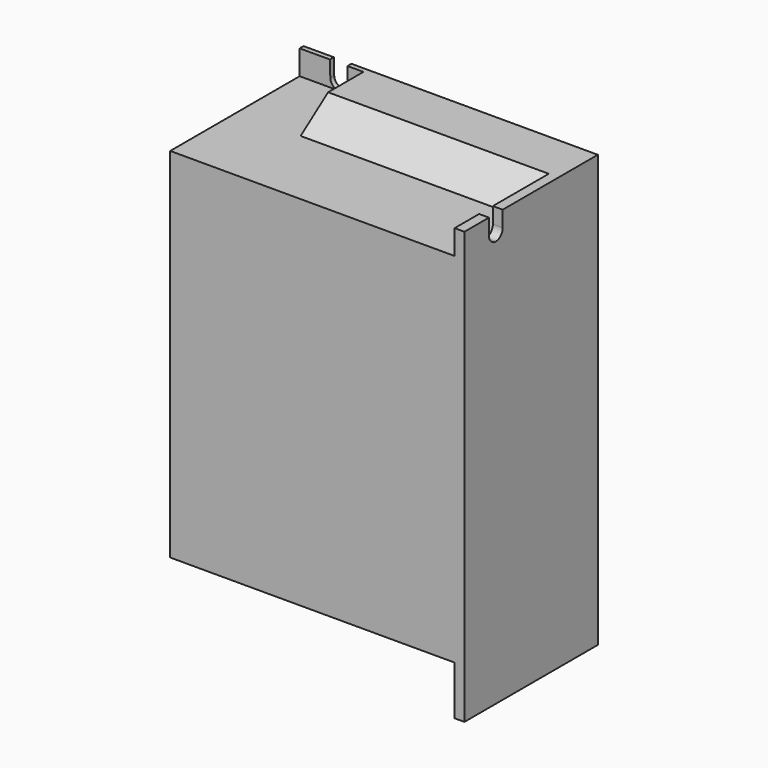
from build123d import *

# Parameters (mm, degrees)
F0_W      = 60
F0_H      = 88
F1_DEPTH  = 34
F3_DEPTH  = 58
F4_W      = 13
F4_H      = 5
F5_DEPTH  = 33
F7_DEPTH  = 1.001
F9_DEPTH  = 2.001
F4_W_2    = 58
F4_H_2    = 10
F10_DEPTH = 25
F11_W     = 58
F11_H     = 7
F12_DEPTH = 10
F14_DEPTH = 3
F15_R     = 1.75
F16_DEPTH = 3


with BuildPart() as f1:
    # F0 (on Front) → F1 (new body)
    with BuildSketch(Plane.XZ):
        Rectangle(F0_W, F0_H)
    extrude(amount=F1_DEPTH)

    # F2 (on face) → F3 (cut)
    with BuildSketch(Plane(origin=(-30, 0, 0), x_dir=(0, -1, 0), z_dir=(-1, 0, 0))):
        Polygon((34, 39), (34, 44), (10, 44), (17, 39), align=None)
    extrude(amount=-F3_DEPTH, mode=Mode.SUBTRACT)

    # F4 (on face) → F5 (cut)
    with BuildSketch(Plane.XZ.offset(34)):
        with Locations((-23.5, 41.5)):
            Rectangle(F4_W, F4_H)
    extrude(amount=-F5_DEPTH, mode=Mode.SUBTRACT)

    # F6 (on face) → F7 (cut, through all)
    with BuildSketch(Plane.XZ.offset(1)):
        with BuildLine():
            Line((-23.831531967, 44), (-23.7494568899, 40.7064042404))
            ThreePointArc((-23.7494568899, 40.7064042404), (-23.2219262295, 39.4972445212), (-22, 39))
            ThreePointArc((-22, 39), (-20.7625631329, 39.5125631329), (-20.25, 40.75))
            Line((-20.25, 40.75), (-20.25, 44))
            Line((-20.25, 44), (-23.831531967, 44))
        make_face()
    extrude(amount=-F7_DEPTH, mode=Mode.SUBTRACT)

    # F8 (on face) → F9 (cut, through all)
    with BuildSketch(Plane(origin=(28, 0, 0), x_dir=(0, -1, 0), z_dir=(-1, 0, 0))):
        with BuildLine():
            Line((24.25, 44), (24.25, 40.75))
            ThreePointArc((24.25, 40.75), (24.7625631329, 39.5125631329), (26, 39))
            ThreePointArc((26, 39), (27.2374368671, 39.5125631329), (27.75, 40.75))
            Line((27.75, 40.75), (27.75, 44))
            Line((27.75, 44), (24.25, 44))
        make_face()
    extrude(amount=-F9_DEPTH, mode=Mode.SUBTRACT)

    # F4 (on face) → F10 (cut)
    with BuildSketch(Plane.XZ.offset(34)):
        with Locations((-1, -39)):
            Rectangle(F4_W_2, F4_H_2)
    extrude(amount=-F10_DEPTH, mode=Mode.SUBTRACT)

    # F11 (on face) → F12 (cut)
    with BuildSketch(Plane(origin=(0, 0, -44), x_dir=(1, 0, 0), z_dir=(0, 0, -1))):
        with Locations((-1, 4.5)):
            Rectangle(F11_W, F11_H)
    extrude(amount=-F12_DEPTH, mode=Mode.SUBTRACT)

    # F13 (on face) → F14 (cut)
    with BuildSketch(Plane.XZ.offset(9)):
        with BuildLine():
            Line((21, -37), (21, -44))
            Line((21, -44), (28, -44))
            Line((28, -44), (28, -35))
            Line((28, -35), (23, -35))
            ThreePointArc((23, -35), (21.5857864376, -35.5857864376), (21, -37))
        make_face()
    extrude(amount=-F14_DEPTH, mode=Mode.SUBTRACT)

    # F15 (on face) → F16 (cut)
    with BuildSketch(Plane(origin=(0, 0, 0), x_dir=(-1, 0, 0), z_dir=(0, 1, 0))):
        with Locations((-25.15, -40.15)):
            Circle(F15_R)
    extrude(amount=-F16_DEPTH, mode=Mode.SUBTRACT)


solid = f1.part
